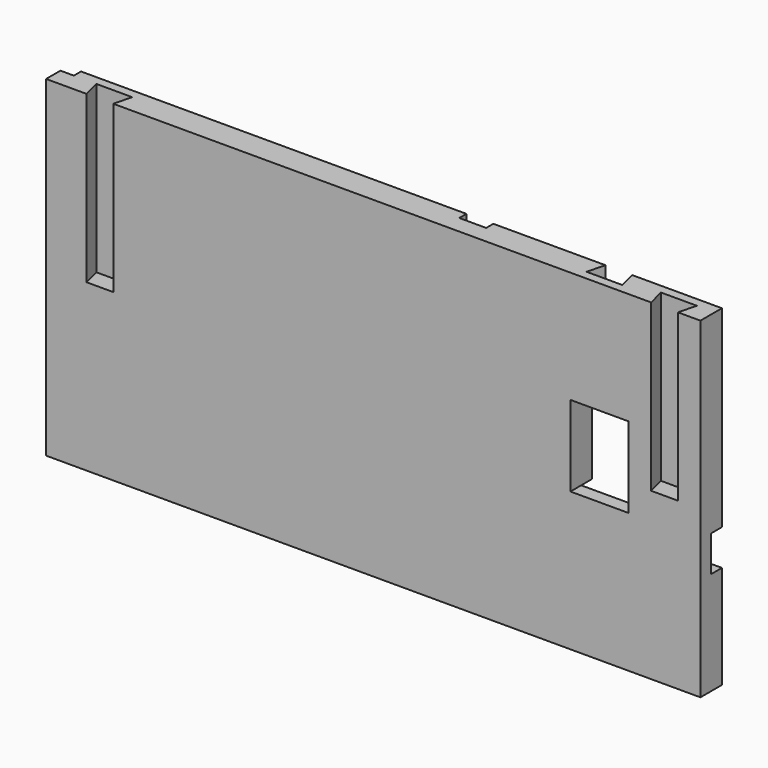
from build123d import *

# Parameters (mm, degrees)
F0_W      = 146
F0_H      = 74
F1_DEPTH  = 6
F2_W      = 13
F2_H      = 18
F3_DEPTH  = 6
F5_DEPTH  = 2
F7_DEPTH  = 3
F6_W      = 6
F6_H      = 37
F8_DEPTH  = 2
F10_DEPTH = 37
F11_DEPTH = 37
F12_DEPTH = 22


with BuildPart() as f1:
    # F0 (on Front) → F1 (new body)
    with BuildSketch(Plane.XZ):
        with Locations((73, 37)):
            Rectangle(F0_W, F0_H)
        with Locations((73, 37)):
            Rectangle(F0_W, F0_H)
    extrude(amount=F1_DEPTH)

    # F2 (on face) → F3 (cut)
    with BuildSketch(Plane.XZ.offset(6)):
        with Locations((123.5, 40)):
            Rectangle(F2_W, F2_H)
        with Locations((123.5, 40)):
            Rectangle(F2_W, F2_H)
    extrude(amount=-F3_DEPTH, mode=Mode.SUBTRACT)

    # F4 (on face) → F5 (cut)
    with BuildSketch(Plane(origin=(0, 0, 0), x_dir=(-1, 0, 0), z_dir=(0, 1, 0))):
        Polygon((-96, 23), (-96, 0), (0, 0), (0, 74), (-3, 74), (-3, 3), (-93, 3), (-93, 23), align=None)
    extrude(amount=-F5_DEPTH, mode=Mode.SUBTRACT)

    # F6 (on face) → F7 (cut)
    with BuildSketch(Plane(origin=(0, 0, 0), x_dir=(-1, 0, 0), z_dir=(0, 1, 0))):
        Polygon((-146, 31), (-146, 23), (-96, 23), (-93, 23), (-93, 28), (-96, 28), (-96, 31), (-117, 31), (-130, 31), align=None)
    extrude(amount=-F7_DEPTH, mode=Mode.SUBTRACT)

    # F6 (on face) → F8 (cut)
    with BuildSketch(Plane(origin=(0, 0, 0), x_dir=(-1, 0, 0), z_dir=(0, 1, 0))):
        with Locations((-92, 55.5)):
            Rectangle(F6_W, F6_H)
    extrude(amount=-F8_DEPTH, mode=Mode.SUBTRACT)

    # F9 (on face) → F10 (cut)
    with BuildSketch(Plane.XY.offset(74)):
        Polygon((141, -6), (142, -2), (134, -2), (135, -6), align=None)
    extrude(amount=-F10_DEPTH, mode=Mode.SUBTRACT)

    # F9 (on face) → F11 (cut)
    with BuildSketch(Plane.XY.offset(74)):
        Polygon((15, -6), (16, -2), (8, -2), (9, -6), align=None)
    extrude(amount=-F11_DEPTH, mode=Mode.SUBTRACT)

    # F9 (on face) → F12 (cut)
    with BuildSketch(Plane.XY.offset(74)):
        Polygon((126, -4), (127, -4), (126, 0), (120, 0), (119, -4), (120, -4), align=None)
    extrude(amount=-F12_DEPTH, mode=Mode.SUBTRACT)


solid = f1.part
